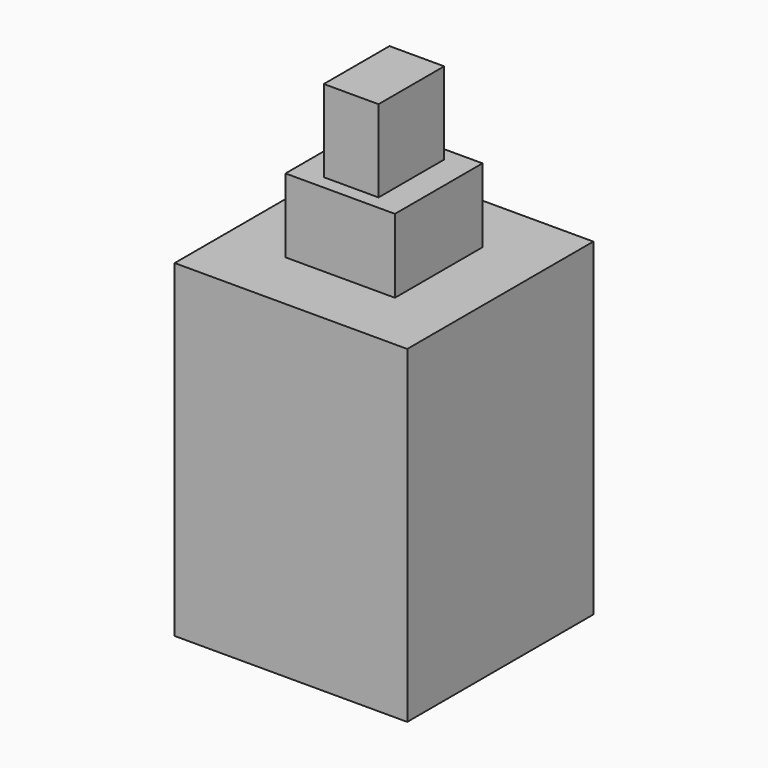
from build123d import *

# Parameters (mm, degrees)
BOX075_W     = 4
BOX075_H     = 4
BOX075_DEPTH = 5.5
BOX076_W     = 8.5
BOX076_H     = 8.5
BOX076_DEPTH = 3.5
BOX078_W     = 2
BOX078_H     = 3
BOX078_DEPTH = 3
BOX074_W     = 8.5
BOX074_H     = 8.5
BOX074_DEPTH = 8.5


with BuildPart() as plunger:
    # Box075 → Box075 (new body)
    with BuildSketch(Plane(origin=(-2, -2, 5.7), x_dir=(1, 0, 0), z_dir=(0, 0, 1))):
        with Locations((2, 2)):
            Rectangle(BOX075_W, BOX075_H)
    extrude(amount=BOX075_DEPTH)


with BuildPart() as pins:
    # Box076 → Box076 (new body)
    with BuildSketch(Plane(origin=(-4.25, -4.25, -3.5), x_dir=(1, 0, 0), z_dir=(0, 0, 1))):
        with Locations((4.25, 4.25)):
            Rectangle(BOX076_W, BOX076_H)
    extrude(amount=BOX076_DEPTH)


with BuildPart() as plunger001:
    # Box078 → Box078 (new body)
    with BuildSketch(Plane(origin=(-1, -1.5, 11.2), x_dir=(1, 0, 0), z_dir=(0, 0, 1))):
        with Locations((1, 1.5)):
            Rectangle(BOX078_W, BOX078_H)
    extrude(amount=BOX078_DEPTH)


with BuildPart() as switch001:
    # Box074 → Box074 (new body)
    with BuildSketch(Plane(origin=(-4.25, -4.25, 0), x_dir=(1, 0, 0), z_dir=(0, 0, 1))):
        with Locations((4.25, 4.25)):
            Rectangle(BOX074_W, BOX074_H)
    extrude(amount=BOX074_DEPTH)

    # Fusion024: union plunger, pins, plunger001
    add(plunger.part)
    add(pins.part)
    add(plunger001.part)


with BuildPart() as switch001_1:
    # Body001 placement: moved
    add(switch001.part.moved(Location((-22.5, 0, 38))))


solid = switch001_1.part
